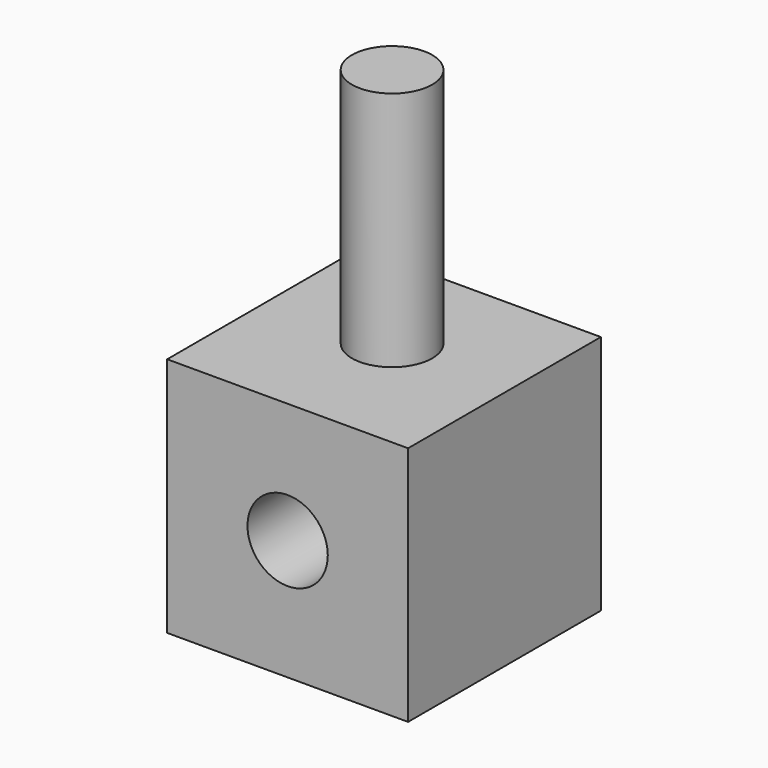
from build123d import *

# Parameters (mm, degrees)
F0_W     = 30
F0_H     = 30
F1_DEPTH = 30
F3_R     = 5
F4_DEPTH = 30.2
F5_R     = 5
F6_DEPTH = 30


with BuildPart() as f1:
    # F0 (on Front) → F1 (new body)
    with BuildSketch(Plane.XZ):
        Rectangle(F0_W, F0_H)
    extrude(amount=F1_DEPTH)

    # F3 (on face) → F4 (cut)
    with BuildSketch(Plane.XZ.offset(30)):
        Circle(F3_R)
    extrude(amount=-F4_DEPTH, mode=Mode.SUBTRACT)

    # F5 (on face) → F6 (join)
    with BuildSketch(Plane.XY.offset(15)):
        with Locations((0, -13.743456)):
            Circle(F5_R)
    extrude(amount=F6_DEPTH)


solid = f1.part
